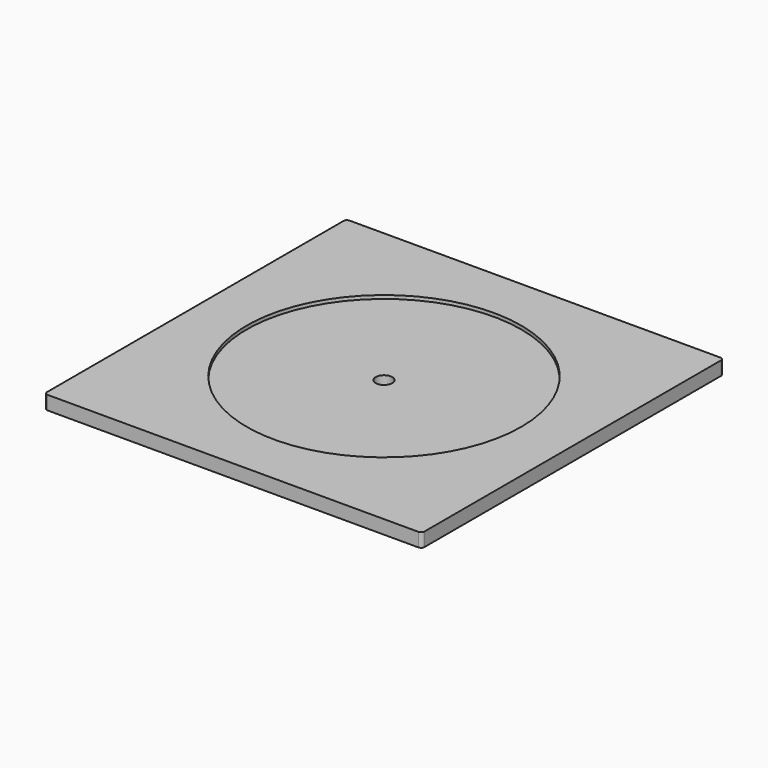
from build123d import *

# Parameters (mm, degrees)
F0_W     = 550
F0_H     = 550
F0_R     = 12.05
F1_DEPTH = 20
F2_R     = 5
F3_R     = 200
F4_DEPTH = 5


with BuildPart() as f1:
    # F0 (on Top) → F1 (new body)
    with BuildSketch(Plane.XY):
        Rectangle(F0_W, F0_H)
        Circle(F0_R, mode=Mode.SUBTRACT)
    extrude(amount=F1_DEPTH)

    # F2
    f2_edges = [f1.edges().sort_by_distance(p)[0] for p in [
        (-275, -275, 10),
        (275, -275, 10),
        (275, 275, 10),
        (-275, 275, 10),
    ]]
    fillet(f2_edges, radius=F2_R)

    # F3 (on face) → F4 (cut)
    with BuildSketch(Plane.XY.offset(20)):
        Circle(F3_R)
    extrude(amount=-F4_DEPTH, mode=Mode.SUBTRACT)


solid = f1.part
